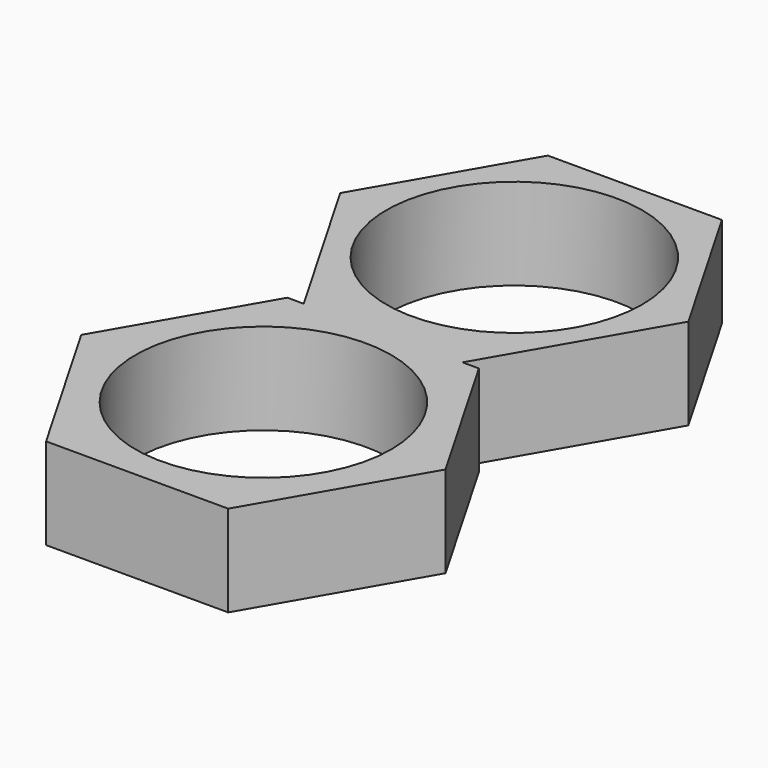
from build123d import *

# Parameters (mm, degrees)
F0_R     = 11.2
F1_DEPTH = 7
F2_DEPTH = 8


with BuildPart() as f1:
    # F0 (on Top) → F1 (new body)
    with BuildSketch(Plane.XY):
        Polygon((-6.952162063, 13.1060945418), (-8.3835671309, 13.1060945418), (-15.9503743426, 0), (-7.9751871713, -13.8134293806), (7.9751871713, -13.8134293806), (15.9503743426, 0), (8.3835671309, 13.1060945418), (6.952162063, 13.1060945418), (6.8042630964, 12.8499260172), (-6.8042630964, 12.8499260172), align=None)
        Circle(F0_R, mode=Mode.SUBTRACT)
        Polygon((-15.2420471066, 27.4645966262), (-6.952162063, 13.1060945418), (6.952162063, 13.1060945418), (15.2420471066, 27.4645966262), (7.6210235533, 40.6645966262), (-7.6210235533, 40.6645966262), align=None)
        with Locations((0, 27.4645966262)):
            Circle(F0_R, mode=Mode.SUBTRACT)
        Polygon((6.952162063, 13.1060945418), (-6.952162063, 13.1060945418), (-6.8042630964, 12.8499260172), (6.8042630964, 12.8499260172), align=None)
    extrude(amount=F1_DEPTH)

    # F0 (on Top) → F2 (join)
    with BuildSketch(Plane.XY):
        Polygon((-6.952162063, 13.1060945418), (-8.3835671309, 13.1060945418), (-15.9503743426, 0), (-7.9751871713, -13.8134293806), (7.9751871713, -13.8134293806), (15.9503743426, 0), (8.3835671309, 13.1060945418), (6.952162063, 13.1060945418), (6.8042630964, 12.8499260172), (-6.8042630964, 12.8499260172), align=None)
        Circle(F0_R, mode=Mode.SUBTRACT)
        Polygon((-15.2420471066, 27.4645966262), (-6.952162063, 13.1060945418), (6.952162063, 13.1060945418), (15.2420471066, 27.4645966262), (7.6210235533, 40.6645966262), (-7.6210235533, 40.6645966262), align=None)
        with Locations((0, 27.4645966262)):
            Circle(F0_R, mode=Mode.SUBTRACT)
        Polygon((6.952162063, 13.1060945418), (-6.952162063, 13.1060945418), (-6.8042630964, 12.8499260172), (6.8042630964, 12.8499260172), align=None)
    extrude(amount=F2_DEPTH)


solid = f1.part
